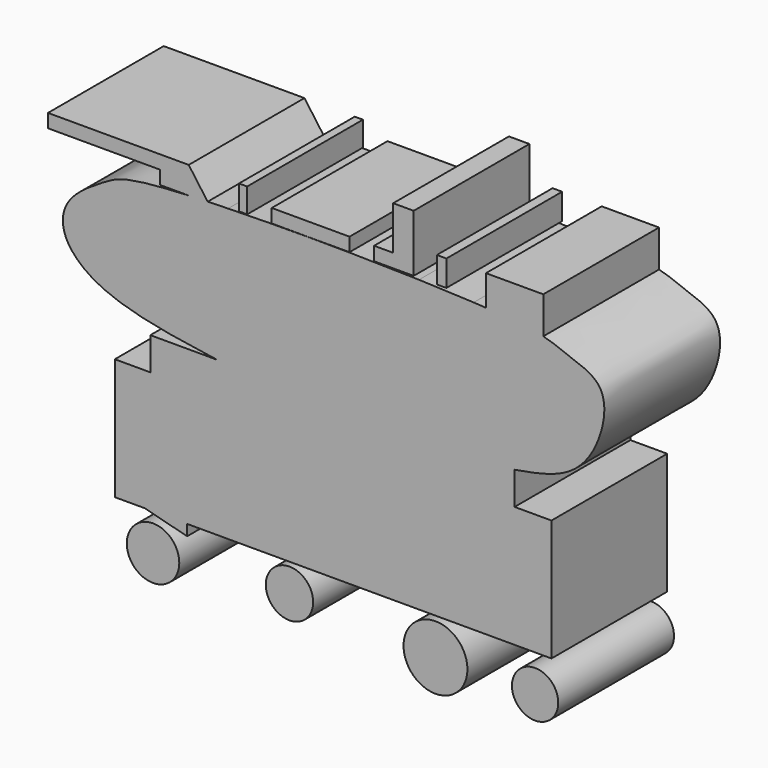
from build123d import *

# Parameters (mm, degrees)
F0_W     = 5.0702048653
F0_H     = 2.3622762329
F1_DEPTH = 25.4
F0_R     = 4.6078543136
F0_R_2   = 4.1577773218
F0_R_3   = 5.6077425758
F0_R_4   = 4.0653177371
F3_DEPTH = 25.4
F2_W     = 1.4373064041
F2_H     = 4.3119154871
F2_W_2   = 3.3537149429
F2_H_2   = 2.3955106735
F2_W_3   = 10.0611355156
F2_H_3   = 6.7074261606
F2_W_4   = 1.6768574715
F2_H_4   = 4.5514665544


with BuildPart() as f1:
    # F0 (on Front) → F1 (new body)
    with BuildSketch(Plane.XZ):
        Polygon((28.9856605232, -12.9357483238), (35.4535356164, -12.9357483238), (35.4535356164, 8.3842817694), (28.9856605232, 8.3842817694), (-34.9744297564, 8.3842817694), (-41.2027537823, 8.3842817694), (-41.2027537823, -12.9357483238), (-35.9326340258, -12.9357483238), (-28.5065565258, -12.9357483238), (-14.6126048639, -12.9357483238), (-6.4678736962, -12.9357483238), (9.8215863109, -12.9357483238), (19.4036252797, -12.9357483238), align=None)
        Polygon((-34.9744297564, 8.3842817694), (28.9856605232, 8.3842817694), (28.9856605232, 14.1335036606), (-23.2364367694, 14.1335036606), (-34.9744297564, 14.1335036606), align=None)
        with BuildLine():
            Line((-23.2364367694, 14.1335036606), (28.9856605232, 14.1335036606))
            add(Edge.make_bspline(
                [(21.7991303653, 37.6480714586), (25.6450727863, 37.4416232789), (34.6809133054, 36.7330473424), (37.0927539509, 35.0331252242), (45.5422763301, 32.8451114125), (44.452312866, 23.3823811536), (39.1621048566, 15.9129440703), (32.4545711571, 14.7400730632), (28.9856605232, 14.1335036606)],
                knots=[0.585293099, 0.585293099, 0.585293099, 0.585293099, 0.6248367621, 0.6959160319, 0.7636209053, 0.8380663016, 0.9162533423, 1, 1, 1, 1], degree=3))
            add(Edge.make_bspline(
                [(12.2025949201, 38.0339011156), (15.6521480295, 37.9326505565), (18.9005752843, 37.803664381), (21.7991303653, 37.6480714586)],
                knots=[0.5554903944, 0.5554903944, 0.5554903944, 0.5554903944, 0.585293099, 0.585293099, 0.585293099, 0.585293099], degree=3))
            add(Edge.make_bspline(
                [(0, 38.2687912792), (4.1809466223, 38.2267187557), (8.3192182558, 38.1478851726), (12.2025949201, 38.0339011156)],
                knots=[0.5219396348, 0.5219396348, 0.5219396348, 0.5219396348, 0.5554903944, 0.5554903944, 0.5554903944, 0.5554903944], degree=3))
            add(Edge.make_bspline(
                [(-7.8992090494, 38.3041348545), (-5.2845734446, 38.3072105896), (-2.6338190113, 38.2952951843), (0, 38.2687912792)],
                knots=[0.5008040794, 0.5008040794, 0.5008040794, 0.5008040794, 0.5219396348, 0.5219396348, 0.5219396348, 0.5219396348], degree=3))
            add(Edge.make_bspline(
                [(-14.1335027292, 38.2671583871), (-12.0975615779, 38.289396776), (-10.0101569366, 38.3016516341), (-7.8992090494, 38.3041348545)],
                knots=[0.4837401124, 0.4837401124, 0.4837401124, 0.4837401124, 0.5008040794, 0.5008040794, 0.5008040794, 0.5008040794], degree=3))
            add(Edge.make_bspline(
                [(-21.316305856, 38.1405074727), (-19.0328736954, 38.1978928782), (-16.621619078, 38.2399809321), (-14.1335027292, 38.2671583871)],
                knots=[0.4628862997, 0.4628862997, 0.4628862997, 0.4628862997, 0.4837401124, 0.4837401124, 0.4837401124, 0.4837401124], degree=3))
            add(Edge.make_bspline(
                [(-24.9057131658, 38.0337493601), (-23.7521320973, 38.0738631863), (-22.5529646355, 38.1094287454), (-21.316305856, 38.1405074727)],
                knots=[0.4515923138, 0.4515923138, 0.4515923138, 0.4515923138, 0.4628862997, 0.4628862997, 0.4628862997, 0.4628862997], degree=3))
            add(Edge.make_bspline(
                [(-28.228171762, 37.8993945294), (-27.1718919643, 37.9487878685), (-26.0616905562, 37.9935522058), (-24.9057131658, 38.0337493601)],
                knots=[0.4402748671, 0.4402748671, 0.4402748671, 0.4402748671, 0.4515923138, 0.4515923138, 0.4515923138, 0.4515923138], degree=3))
            add(Edge.make_bspline(
                [(-23.2364367694, 14.1335036606), (-30.9795679414, 15.2487990388), (-43.7195091698, 17.0838186524), (-51.06587186, 24.5887448025), (-49.8879616394, 30.9822534776), (-42.5567409599, 35.4681098428), (-39.7504179111, 37.1701302775), (-31.2057923008, 37.7601562125), (-28.228171762, 37.8993945294)],
                knots=[0, 0, 0, 0, 0.1217723951, 0.2003547561, 0.2616353983, 0.3333348397, 0.4083713298, 0.4402748671, 0.4402748671, 0.4402748671, 0.4402748671], degree=3))
        make_face()
        with BuildLine():
            Line((-28.228171762, 40.2616707623), (-28.228171762, 37.8993945294))
            add(Edge.make_bspline(
                [(-28.228171762, 37.8993945294), (-27.1718919643, 37.9487878685), (-26.0616905562, 37.9935522058), (-24.9057131658, 38.0337493601)],
                knots=[0.4402748671, 0.4402748671, 0.4402748671, 0.4402748671, 0.4515923138, 0.4515923138, 0.4515923138, 0.4515923138], degree=3))
            Line((-24.9057131658, 38.0337493601), (-28.228171762, 40.2616707623))
        make_face()
        with Locations((-30.7632741947, 39.0805326458)):
            Rectangle(F0_W, F0_H)
        Polygon((-28.5065565258, -14.8521559313), (-28.5065565258, -12.9357483238), (-35.9326340258, -12.9357483238), align=None)
        Polygon((-28.228171762, 40.2616707623), (-24.9057131658, 38.0337493601), (-28.228171762, 42.6400601864), align=None)
        Polygon((-33.2983766273, 40.2616707623), (-28.228171762, 40.2616707623), (-28.228171762, 42.6400601864), (-52.940748632, 42.6400601864), (-52.940748632, 40.2616707623), align=None)
    extrude(amount=F1_DEPTH)

    # F2 (on Front) → F3, piece 4 (join)
    with BuildSketch(Plane.XZ):
        with Locations((28.9856577292, 39.5258981735)):
            Rectangle(F2_W_3, F2_H_3)
    extrude(amount=F3_DEPTH)


with BuildPart() as f1b:
    # F0 (on Front) → F1, piece 2 (new body)
    with BuildSketch(Plane.XZ):
        with Locations((-34.4953276217, -19.403623417)):
            Circle(F0_R)
    extrude(amount=F1_DEPTH)


with BuildPart() as f1c:
    # F0 (on Front) → F1, piece 3 (new body)
    with BuildSketch(Plane.XZ):
        with Locations((-10.5402404442, -17.8465414792)):
            Circle(F0_R_2)
    extrude(amount=F1_DEPTH)


with BuildPart() as f1d:
    # F0 (on Front) → F1, piece 4 (new body)
    with BuildSketch(Plane.XZ):
        with Locations((15.0917060673, -19.403623417)):
            Circle(F0_R_3)
    extrude(amount=F1_DEPTH)


with BuildPart() as f1e:
    # F0 (on Front) → F1, piece 5 (new body)
    with BuildSketch(Plane.XZ):
        with Locations((32.5789265335, -19.403623417)):
            Circle(F0_R_4)
    extrude(amount=F1_DEPTH)


with BuildPart() as f3:
    # F2 (on Front) → F3 (new body)
    with BuildSketch(Plane.XZ):
        Polygon((-13.6544015259, 38.3281446993), (-12.2170960531, 38.3281446993), (0, 38.3281446993), (0, 40.7236553729), (-13.6544015259, 40.7236553729), align=None)
    extrude(amount=F3_DEPTH)


with BuildPart() as f3b:
    # F2 (on Front) → F3, piece 2 (new body)
    with BuildSketch(Plane.XZ):
        with Locations((-18.684970215, 40.4841024429)):
            Rectangle(F2_W, F2_H)
    extrude(amount=F3_DEPTH)


with BuildPart() as f3c:
    # F2 (on Front) → F3, piece 3 (new body)
    with BuildSketch(Plane.XZ):
        with Locations((5.9887710959, 39.5259000361)):
            Rectangle(F2_W_2, F2_H_2)
        Polygon((7.6656285673, 40.7236553729), (7.6656285673, 38.3281446993), (11.2588936463, 38.3281446993), (11.2588936463, 48.3892783523), (7.6656285673, 48.3892783523), align=None)
    extrude(amount=F3_DEPTH)


with BuildPart() as f3d:
    # F2 (on Front) → F3, piece 5 (new body)
    with BuildSketch(Plane.XZ):
        with Locations((16.1696858704, 40.6038779765)):
            Rectangle(F2_W_4, F2_H_4)
    extrude(amount=F3_DEPTH)


solid = Compound([f1.part, f1b.part, f1c.part, f1d.part, f1e.part, f3.part, f3b.part, f3c.part, f3d.part])
